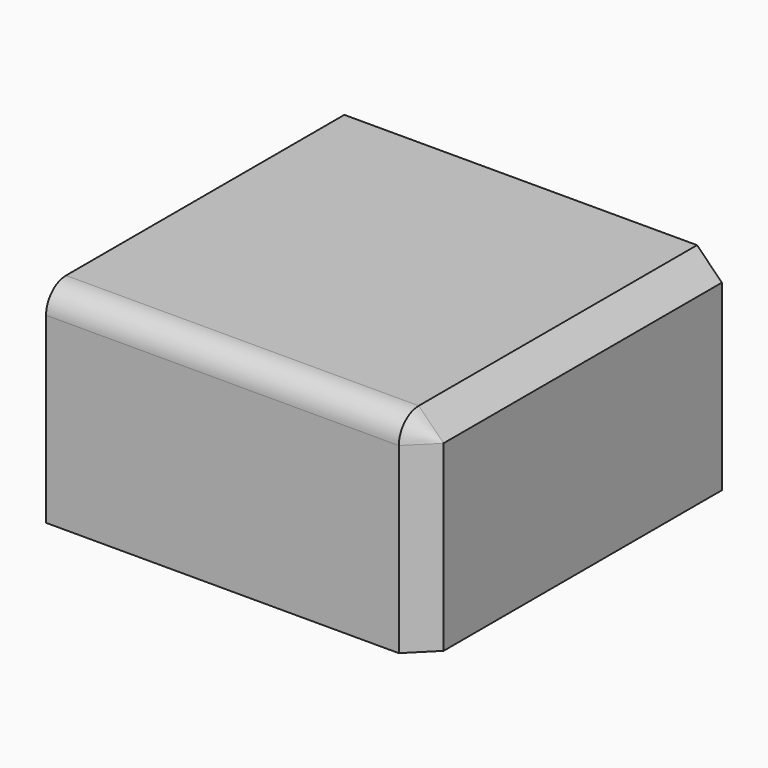
from build123d import *

# Parameters (mm, degrees)
F0_W     = 77.131554
F0_H     = 76.146387
F1_DEPTH = 42.418
F2_R     = 5.08
F3_SIZE  = 5.08


with BuildPart() as f1:
    # F0 (on Top) → F1 (new body)
    with BuildSketch(Plane.XY):
        with Locations((38.565777, 38.073193)):
            Rectangle(F0_W, F0_H)
    extrude(amount=F1_DEPTH)

    # F2
    f2_edges = [f1.edges().sort_by_distance(p)[0] for p in [
        (38.565777, 0, 42.418),
    ]]
    fillet(f2_edges, radius=F2_R)

    # F3
    f3_edges = [f1.edges().sort_by_distance(p)[0] for p in [
        (77.131554, 40.613193, 42.418),
    ]]
    chamfer(f3_edges, length=F3_SIZE)


solid = f1.part
